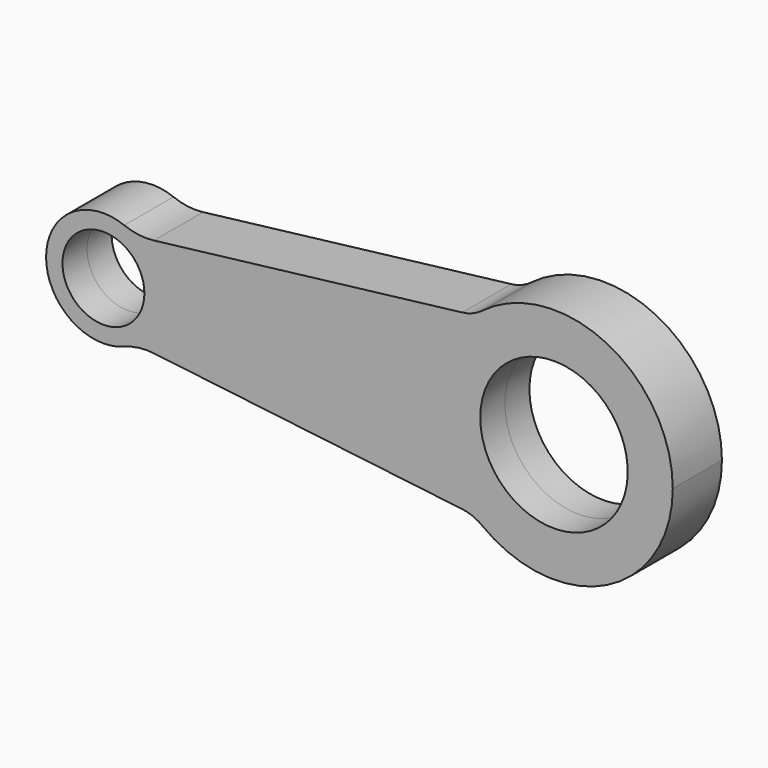
from build123d import *

# Parameters (mm, degrees)
F0_R     = 10
F1_DEPTH = 7.5
F2_R     = 10
F3_R     = 10
F4_R     = 15
F5_R     = 15


with BuildPart() as f1:
    # F0 (on Front) → F1 (new body, symmetric)
    with BuildSketch(Plane.XZ):
        with BuildLine():
            ThreePointArc((-19.027325, -11.591323), (-14.510885, -6.560614), (-12.878518, 0))
            ThreePointArc((-12.878518, 0), (-14.510885, 6.560614), (-19.027325, 11.591323))
            ThreePointArc((-19.027325, 11.591323), (-40.878518, 0), (-19.027325, -11.591323))
        make_face()
        with Locations((-26.878518, 0)):
            Circle(F0_R, mode=Mode.SUBTRACT)
        with BuildLine():
            Line((54.121482, 0), (-12.878518, 0))
            ThreePointArc((-12.878518, 0), (-14.510885, -6.560614), (-19.027325, -11.591323))
            Line((-19.027325, -11.591323), (63.640685, -21.482518))
            ThreePointArc((63.640685, -21.482518), (56.607871, -11.748551), (54.121482, 0))
        make_face()
        with BuildLine():
            ThreePointArc((-19.027325, 11.591323), (-14.510885, 6.560614), (-12.878518, 0))
            Line((-12.878518, 0), (54.121482, 0))
            ThreePointArc((54.121482, 0), (56.607871, 11.748551), (63.640685, 21.482518))
            Line((63.640685, 21.482518), (-19.027325, 11.591323))
        make_face()
        with BuildLine():
            ThreePointArc((63.640685, 21.482518), (56.607871, 11.748551), (54.121482, 0))
            ThreePointArc((54.121482, 0), (56.607871, -11.748551), (63.640685, -21.482518))
            ThreePointArc((63.640685, -21.482518), (94.870033, -26.513611), (112.121482, 0))
            ThreePointArc((112.121482, 0), (94.870033, 26.513611), (63.640685, 21.482518))
        make_face()
        with BuildLine():
            ThreePointArc((101.121482, 0), (83.121482, -18), (65.121482, 0))
            ThreePointArc((65.121482, 0), (83.121482, 18), (101.121482, 0))
        make_face(mode=Mode.SUBTRACT)
    extrude(amount=F1_DEPTH, both=True)

    # F2
    f2_edges = [f1.edges().sort_by_distance(p)[0] for p in [
        (63.640685, -3.75, 21.482518),
    ]]
    fillet(f2_edges, radius=F2_R)

    # F3
    f3_edges = [f1.edges().sort_by_distance(p)[0] for p in [
        (63.640685, 3.75, -21.482518),
    ]]
    fillet(f3_edges, radius=F3_R)

    # F4
    f4_edges = [f1.edges().sort_by_distance(p)[0] for p in [
        (-19.027325, 0, -11.591323),
    ]]
    fillet(f4_edges, radius=F4_R)

    # F5
    f5_edges = [f1.edges().sort_by_distance(p)[0] for p in [
        (-19.027325, 0, 11.591323),
    ]]
    fillet(f5_edges, radius=F5_R)


solid = f1.part
